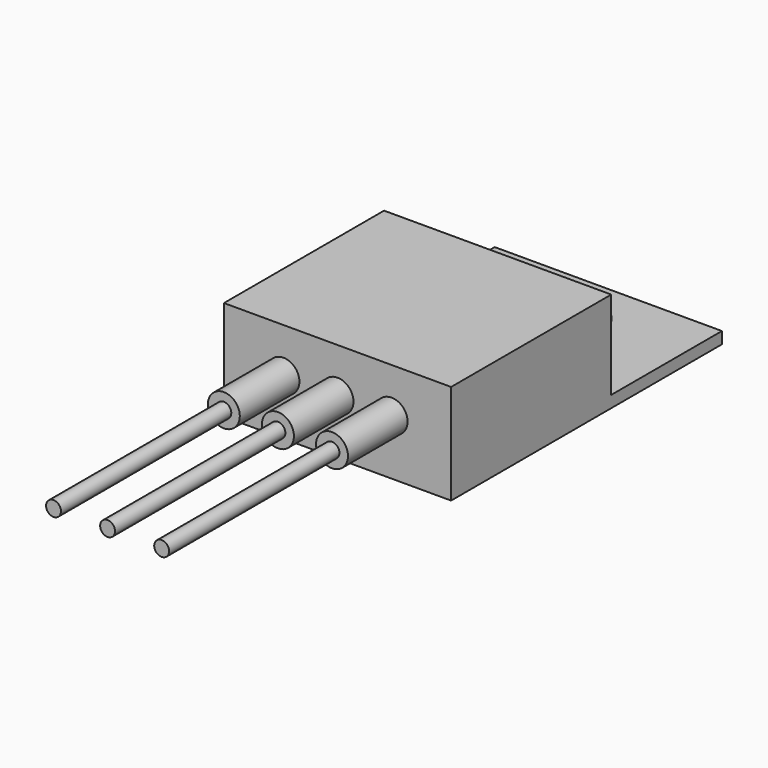
from build123d import *

# Parameters (mm, degrees)
SKETCH_W     = 10.67
SKETCH_H     = 9.4
PAD_DEPTH    = 4.7
SKETCH001_R  = 0.75
PAD001_DEPTH = 3.5
SKETCH002_R  = 0.35
PAD002_DEPTH = 10
SKETCH003_W  = 10.67
SKETCH003_H  = 0.55
PAD003_DEPTH = 6.5
SKETCH004_R  = 2
POCKET_DEPTH = 5


with BuildPart() as part:
    # Sketch → Pad (new body)
    with BuildSketch(Plane.XY):
        with Locations((5.335, 4.7)):
            Rectangle(SKETCH_W, SKETCH_H)
    extrude(amount=PAD_DEPTH)

    # Sketch001 → Pad001 (new body)
    with BuildSketch(Plane.XZ):
        with Locations((2.795, 2.6)):
            Circle(SKETCH001_R)
        with Locations((5.335, 2.6)):
            Circle(SKETCH001_R)
        with Locations((7.875, 2.6)):
            Circle(SKETCH001_R)
    extrude(amount=PAD001_DEPTH)

    # Sketch002 → Pad002 (new body)
    with BuildSketch(Plane.XZ.offset(3.5)):
        with Locations((2.795, 2.6)):
            Circle(SKETCH002_R)
        with Locations((5.335, 2.6)):
            Circle(SKETCH002_R)
        with Locations((7.875, 2.6)):
            Circle(SKETCH002_R)
    extrude(amount=PAD002_DEPTH)

    # Sketch003 → Pad003 (new body)
    with BuildSketch(Plane(origin=(0, 9.4, 0), x_dir=(-1, 0, 0), z_dir=(0, 1, 0))):
        with Locations((-5.335, 0.275)):
            Rectangle(SKETCH003_W, SKETCH003_H)
    extrude(amount=PAD003_DEPTH)

    # Sketch004 → Pocket (cut)
    with BuildSketch(Plane.XY.offset(0.55)):
        with Locations((5.335, 12.9)):
            Circle(SKETCH004_R)
    extrude(amount=-POCKET_DEPTH, mode=Mode.SUBTRACT)


solid = part.part
